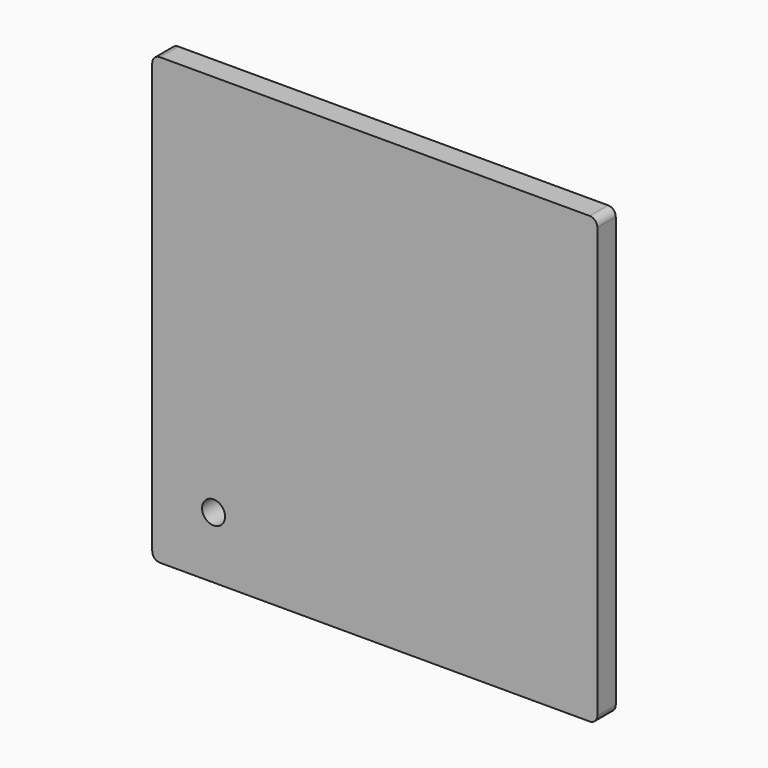
from build123d import *

# Parameters (mm, degrees)
SKETCH005_W   = 54
SKETCH005_H   = 54
SKETCH005_W_2 = 50
SKETCH005_H_2 = 50
SKETCH005_W_3 = 44.5
SKETCH005_H_3 = 44.5
PAD002_DEPTH  = 2
SKETCH006_W   = 58
SKETCH006_H   = 58
PAD003_DEPTH  = 3
FILLET_R      = 1
SKETCH007_R   = 1.5
POCKET_DEPTH  = 5.001


with BuildPart() as part:
    # Sketch005 → Pad002 (new body)
    with BuildSketch(Plane.XZ):
        with Locations((0, 24.25)):
            Rectangle(SKETCH005_W, SKETCH005_H)
        with Locations((0, 24.25)):
            Rectangle(SKETCH005_W_2, SKETCH005_H_2, mode=Mode.SUBTRACT)
        with Locations((0, 24.25)):
            Rectangle(SKETCH005_W_3, SKETCH005_H_3)
    extrude(amount=-PAD002_DEPTH)

    # Sketch006 (on Face15 of Pad002) → Pad003 (join)
    with BuildSketch(Plane.XZ):
        with Locations((0, 24.25)):
            Rectangle(SKETCH006_W, SKETCH006_H)
    extrude(amount=PAD003_DEPTH)

    # Fillet
    fillet_edges = [part.edges().sort_by_distance(p)[0] for p in [
        (-29, -1.5, 53.25),
        (-27, 1, 51.25),
        (-22.25, 1, 46.5),
        (22.25, 1, 46.5),
        (27, 1, 51.25),
        (29, -1.5, 53.25),
        (29, -1.5, -4.75),
        (27, 1, -2.75),
        (22.25, 1, 2),
        (-29, -1.5, -4.75),
        (-27, 1, -2.75),
        (-22.25, 1, 2),
    ]]
    fillet(fillet_edges, radius=FILLET_R)

    # Sketch007 (on Face33 of Fillet) → Pocket (cut, through all)
    with BuildSketch(Plane(origin=(0, 2, 0), x_dir=(1, 0, 0), z_dir=(0, 1, 0))):
        with Locations((-21.008142, -3.295312)):
            Circle(SKETCH007_R)
    extrude(amount=-POCKET_DEPTH, mode=Mode.SUBTRACT)


solid = part.part
